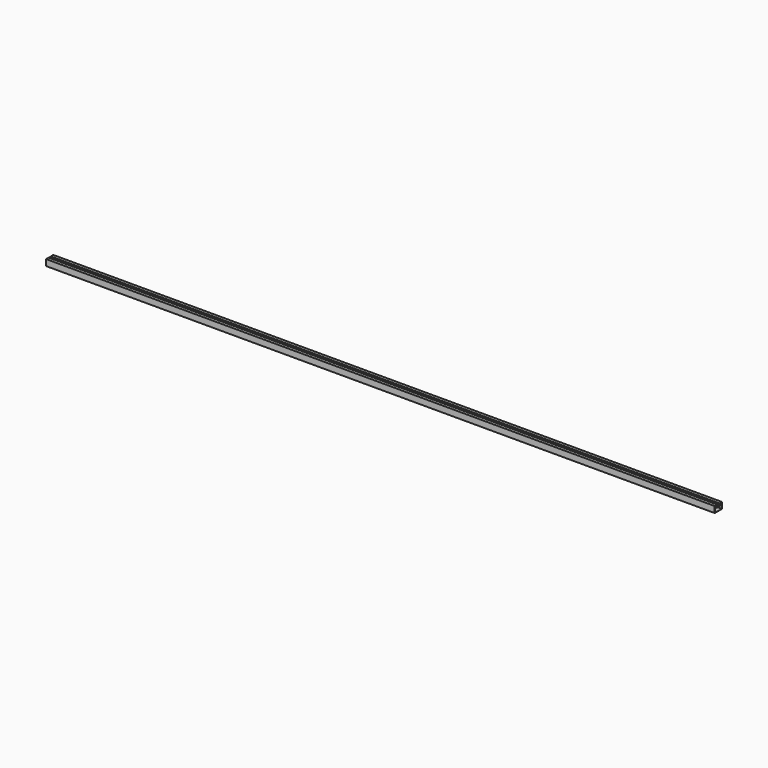
from build123d import *

# Parameters (mm, degrees)
F0_W     = 50
F0_H     = 50
F0_W_2   = 40
F0_H_2   = 40
F1_DEPTH = 20000


with BuildPart() as f1:
    # F0 (on Right) → F1 (new body)
    with BuildSketch(Plane.YZ):
        Polygon((-12.52403, 0), (-102.52403, 0), (-102.52403, -10), (-42.52403, -10), (-12.52403, -10), align=None)
        Polygon((-92.52403, -70), (-42.52403, -70), (-42.52403, -10), (-102.52403, -10), (-102.52403, -15), (-102.52403, -70), align=None)
        with Locations((-72.52403, -40)):
            Rectangle(F0_W, F0_H, mode=Mode.SUBTRACT)
        Polygon((162.47597, 0), (157.47597, 0), (157.47597, -10), (157.47597, -15), (157.47597, -70), (157.47597, -180), (-102.52403, -180), (-102.52403, -70), (-102.52403, -15), (-102.52403, -10), (-102.52403, 0), (-107.52403, 0), (-107.52403, -185), (162.47597, -185), align=None)
        Polygon((147.47597, -70), (97.47597, -70), (7.47597, -70), (-42.52403, -70), (-92.52403, -70), (-92.52403, -75), (147.47597, -75), align=None)
        Polygon((2.47597, -19.964376), (2.47597, -69.964376), (52.47597, -69.964376), (52.47597, -19.964376), (47.89412, -19.964376), (44.89412, -19.964376), (10.046337, -19.964376), (7.046337, -19.964376), align=None)
        with Locations((27.47597, -45)):
            Rectangle(F0_W_2, F0_H_2, mode=Mode.SUBTRACT)
        Polygon((27.47597, 2.035624), (7.046337, -19.964376), (10.046337, -19.964376), (27.47597, -1.206901), (44.89412, -19.964376), (47.89412, -19.964376), align=None)
        Polygon((157.47597, -10), (157.47597, 0), (67.47597, 0), (67.47597, -10), (97.47597, -10), align=None)
        Polygon((157.47597, -15), (157.47597, -10), (97.47597, -10), (97.47597, -70), (147.47597, -70), (157.47597, -70), align=None)
        with Locations((127.47597, -40)):
            Rectangle(F0_W, F0_H, mode=Mode.SUBTRACT)
    extrude(amount=F1_DEPTH)


solid = f1.part
